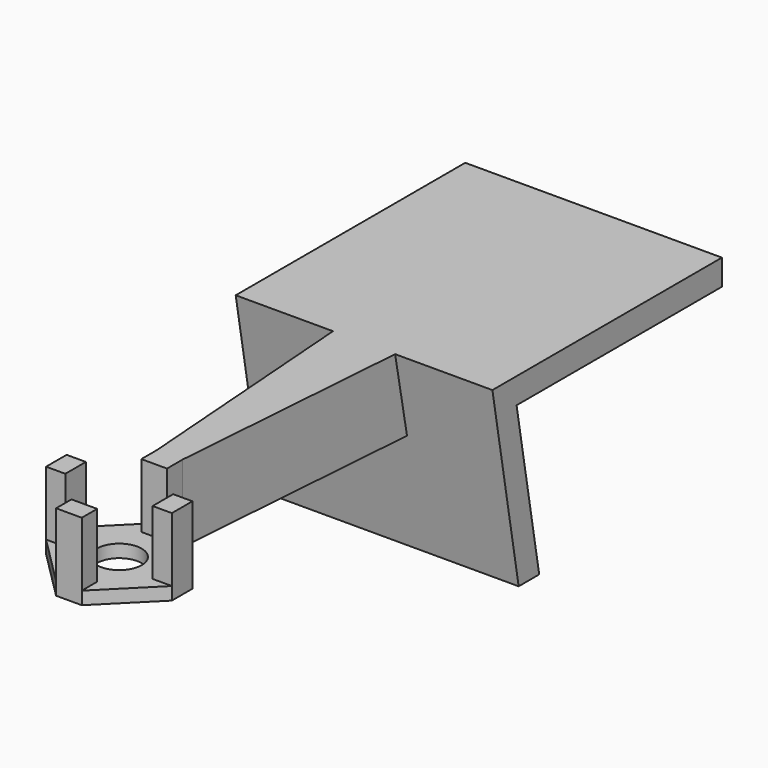
from build123d import *

# Parameters (mm, degrees)
SKETCH_R           = 3.5
PAD_DEPTH          = 2
SKETCH001_W        = 4
SKETCH001_H        = 3
PAD001_DEPTH       = 10
POLARPATTERN_COUNT = 4
PAD002_DEPTH       = 10
PAD004_DEPTH       = 2
PAD005_DEPTH       = 20


with BuildPart() as part:
    # Sketch → Pad (new body)
    with BuildSketch(Plane.XY):
        Polygon((-9.8, 2), (-9.8, -2), (-2, -9.8), (2, -9.8), (9.8, -2), (9.8, 2), (2, 9.8), (-2, 9.8), align=None)
        Circle(SKETCH_R, mode=Mode.SUBTRACT)
    extrude(amount=-PAD_DEPTH)

    # Sketch001 → Pad001 (join)
    with BuildSketch(Plane.XY):
        with Locations((0, 8.3)):
            Rectangle(SKETCH001_W, SKETCH001_H)
    pad001 = extrude(amount=PAD001_DEPTH)

    # PolarPattern: Pad001 ×4 about axis
    polarpattern_axis = Axis((0, 0, 0), (0, 0, 1))
    for i in range(1, POLARPATTERN_COUNT):
        add(pad001.rotate(polarpattern_axis, i * 360 / POLARPATTERN_COUNT))

    # Sketch002 → Pad002 (join)
    with BuildSketch(Plane.XY):
        Polygon((-2, 9.8), (-5, 49.8), (5, 49.8), (2, 9.8), align=None)
    extrude(amount=PAD002_DEPTH)

    # Sketch002 → Pad004 (join)
    with BuildSketch(Plane.XY):
        Polygon((-2, 9.8), (-5, 49.8), (5, 49.8), (2, 9.8), align=None)
    extrude(amount=-PAD004_DEPTH)

    # Sketch003 → Pad005 (join, symmetric)
    with BuildSketch(Plane.YZ):
        Polygon((47.684076, 10), (92.389384, 10), (92.389384, 6), (52.389384, 6), (56.797559, -19), (52.797559, -19), align=None)
    extrude(amount=PAD005_DEPTH, both=True)


solid = part.part
